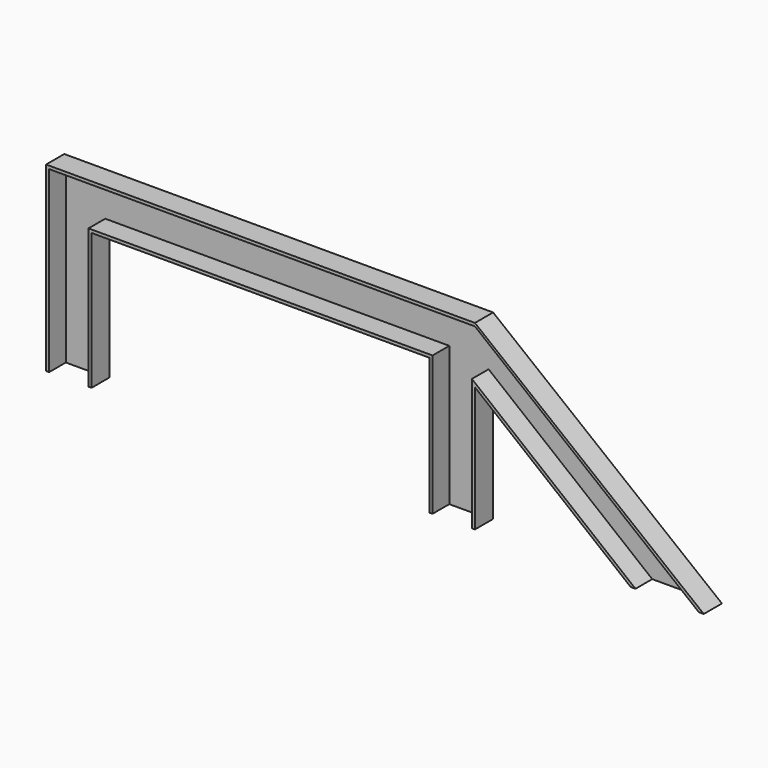
from build123d import *

# Parameters (mm, degrees)
F1_DEPTH = 75
F3_DEPTH = 69


with BuildPart() as f1:
    # F0 (on Front) → F1 (new body)
    with BuildSketch(Plane.XZ):
        Polygon((0, 600), (0, 0), (150, 0), (150, 450), (1265, 450), (1265, 0), (1415, 0), (1415, 413.248549), (1928.905491, 0), (2170, 0), (1415, 600), align=None)
    extrude(amount=F1_DEPTH)

    # F2 (on face) → F3 (cut)
    with BuildSketch(Plane.XZ.offset(75)):
        Polygon((140, 0), (140, 450), (140, 460), (1265.198946, 460), (1275.198946, 460), (1275.198946, 0), (1405, 0), (1405, 434.121992), (1944.863179, 0), (2153.761585, 0), (1415, 590), (10, 590), (10, 0), align=None)
    extrude(amount=-F3_DEPTH, mode=Mode.SUBTRACT)


solid = f1.part
